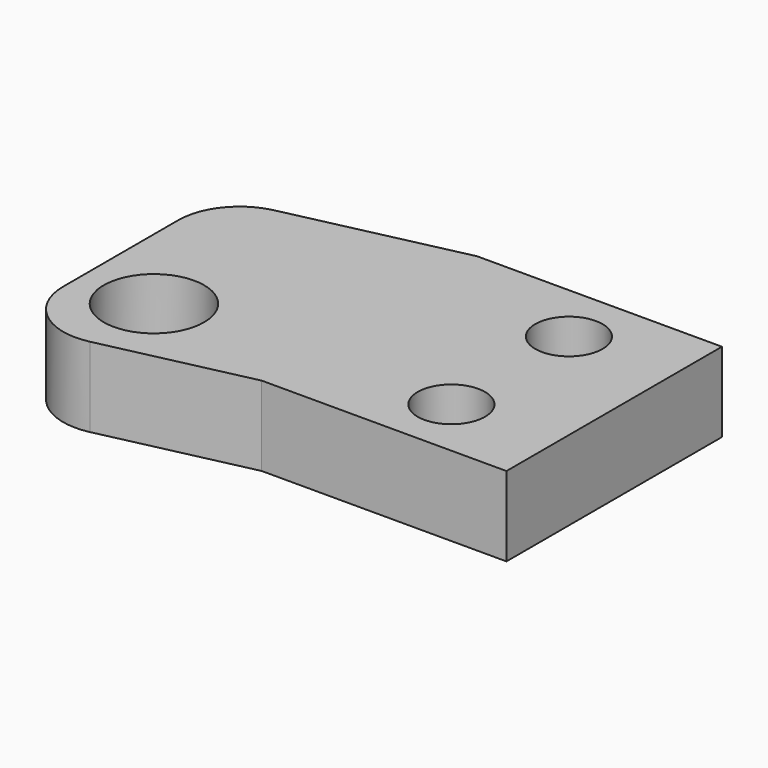
from build123d import *

# Parameters (mm, degrees)
F0_R     = 4.1
F1_DEPTH = 6.5
F2_D     = 5.5
F3_R     = 5


with BuildPart() as f1:
    # F0 (on Top) → F1 (new body)
    with BuildSketch(Plane.XY):
        Polygon((18, 22), (0, 18), (0, 0), (0, -4), (18, 0), (38, 0), (38, 22), align=None)
        with Locations((6, 4)):
            Circle(F0_R, mode=Mode.SUBTRACT)
    extrude(amount=F1_DEPTH)

    # F2 (through all)
    with Locations(Plane(origin=(0, 0, 0), x_dir=(1, 0, 0), z_dir=(0, 0, -1))):
        with Locations((29.5, -17), (29.5, -5)):
            Hole(F2_D / 2)

    # F3
    f3_edges = [f1.edges().sort_by_distance(p)[0] for p in [
        (0, 18, 3.25),
        (0, -4, 3.25),
    ]]
    fillet(f3_edges, radius=F3_R)


solid = f1.part
